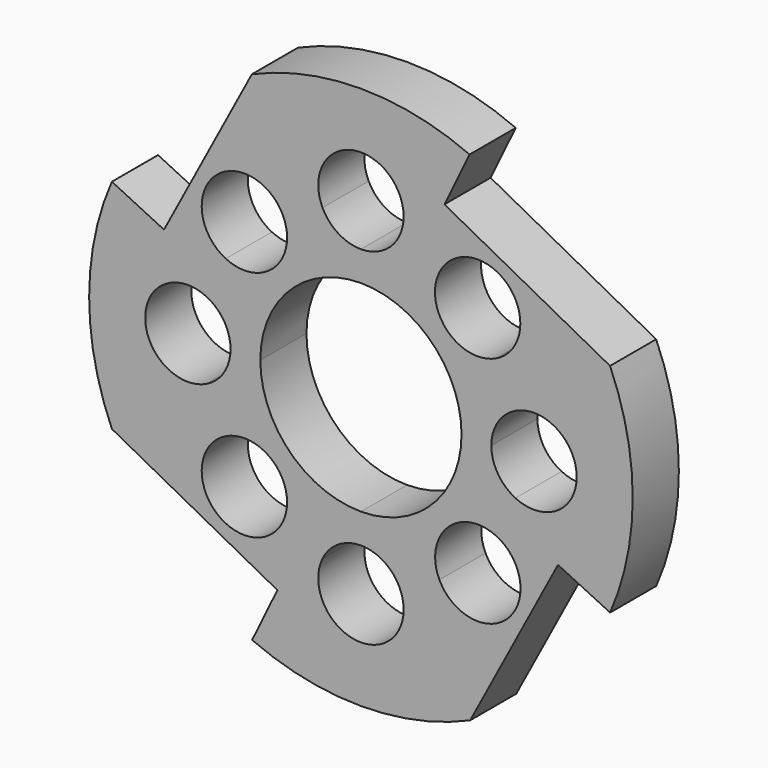
from build123d import *

# Parameters (mm, degrees)
F1_DEPTH = 6.35


with BuildPart() as f1:
    # F0 (on Front) → F1 (new body)
    with BuildSketch(Plane.XZ):
        with BuildLine():
            Line((-6.4141074981, 15.9385126175), (-4.2278079722, 16.9990878248))
            ThreePointArc((-4.2278079722, 16.9990878248), (-1.0521718821, 23.6296872525), (4.699, 19.05))
            ThreePointArc((4.699, 19.05), (4.5806844818, 18.0021781266), (4.2316960296, 17.0071221983))
            Line((4.2316960296, 17.0071221983), (6.4238473824, 15.9488473824))
            Line((6.4238473824, 15.9488473824), (9.1930085155, 21.6849947733))
            Line((9.1930085155, 21.6849947733), (11.9621696486, 27.4211421643))
            ThreePointArc((11.9621696486, 27.4211421643), (-0.0243040276, 29.9167503183), (-12.0067070775, 27.4016701215))
            Line((-12.0067070775, 27.4016701215), (-6.4141074981, 15.9385126175))
        make_face()
        with BuildLine():
            Line((-8.6004070241, 14.8779374102), (-6.4141074981, 15.9385126175))
            Line((-6.4141074981, 15.9385126175), (-12.0067070775, 27.4016701215))
            Line((-12.0067070775, 27.4016701215), (-21.6763890996, 9.1963973453))
            Line((-21.6763890996, 9.1963973453), (-15.9391074981, 6.4135126175))
            Line((-15.9391074981, 6.4135126175), (-14.8789637146, 8.5991379737))
            ThreePointArc((-14.8789637146, 8.5991379737), (-16.1509739914, 16.1496557682), (-8.6004070241, 14.8779374102))
        make_face()
        with BuildLine():
            ThreePointArc((-16.9992346746, -4.227879206), (-23.749, -9.2288e-06), (-16.9992512817, 4.2278872613))
            Line((-16.9992512817, 4.2278872613), (-15.9391074981, 6.4135126175))
            Line((-15.9391074981, 6.4135126175), (-21.6763890996, 9.1963973453))
            Line((-21.6763890996, 9.1963973453), (-27.4136707011, 11.9792820732))
            ThreePointArc((-27.4136707011, 11.9792820732), (-29.9167601905, 3.8177e-06), (-27.4136737585, -11.9792750765))
            Line((-27.4136737585, -11.9792750765), (-15.9391074981, -6.4134484614))
            Line((-15.9391074981, -6.4134484614), (-16.9992346746, -4.227879206))
        make_face()
        with BuildLine():
            Line((-9.1970720847, -21.6758947021), (-6.4141074981, -15.9384484614))
            Line((-6.4141074981, -15.9384484614), (-8.6004236303, -14.8778433301))
            ThreePointArc((-8.6004236303, -14.8778433301), (-16.1509809173, -16.1495205298), (-14.8789803216, -8.5990177168))
            Line((-14.8789803216, -8.5990177168), (-15.9391074981, -6.4134484614))
            Line((-15.9391074981, -6.4134484614), (-27.4136737585, -11.9792750765))
            Line((-27.4136737585, -11.9792750765), (-9.1970720847, -21.6758947021))
        make_face()
        with BuildLine():
            Line((6.4341816168, -15.9384484614), (4.2303024615, -17.0042380186))
            ThreePointArc((4.2303024615, -17.0042380186), (4.5803270771, -18.0006169113), (4.699, -19.05))
            ThreePointArc((4.699, -19.05), (-1.0521904227, -23.6296829928), (-4.227791366, -16.9990535926))
            Line((-4.227791366, -16.9990535926), (-6.4141074981, -15.9384484614))
            Line((-6.4141074981, -15.9384484614), (-9.1970720847, -21.6758947021))
            Line((-9.1970720847, -21.6758947021), (-11.9800366713, -27.4133409429))
            ThreePointArc((-11.9800366713, -27.4133409429), (0.0235983496, -29.9167508833), (12.0232690531, -27.3944071221))
            Line((12.0232690531, -27.3944071221), (6.4341816168, -15.9384484614))
        make_face()
        with BuildLine():
            Line((21.6946431052, -9.1775261509), (15.9591816168, -6.4134484614))
            Line((15.9591816168, -6.4134484614), (14.9083960431, -8.5938286342))
            ThreePointArc((14.9083960431, -8.5938286342), (16.8474784098, -10.3274483008), (17.5673632335, -12.8268969228))
            ThreePointArc((17.5673632335, -12.8268969228), (13.9177463222, -17.4072239999), (8.638060772, -14.8726589042))
            Line((8.638060772, -14.8726589042), (6.4341816168, -15.9384484614))
            Line((6.4341816168, -15.9384484614), (12.0232690531, -27.3944071221))
            Line((12.0232690531, -27.3944071221), (21.6946431052, -9.1775261509))
        make_face()
        with BuildLine():
            Line((15.9488473824, 6.4238473824), (17.0071221983, 4.2316960296))
            ThreePointArc((17.0071221983, 4.2316960296), (21.5481111074, 3.9799550117), (23.749, 0))
            ThreePointArc((23.749, 0), (21.549448622, -3.9791151763), (17.0099671904, -4.2330682886))
            Line((17.0099671904, -4.2330682886), (15.9591816168, -6.4134484614))
            Line((15.9591816168, -6.4134484614), (21.6946431052, -9.1775261509))
            Line((21.6946431052, -9.1775261509), (27.4301045936, -11.9416038403))
            ThreePointArc((27.4301045936, -11.9416038403), (29.9167580877, 0.0112169248), (27.4211421643, 11.9621696486))
            Line((27.4211421643, 11.9621696486), (15.9488473824, 6.4238473824))
        make_face()
        with BuildLine():
            Line((14.8905725665, 8.6159987352), (15.9488473824, 6.4238473824))
            Line((15.9488473824, 6.4238473824), (27.4211421643, 11.9621696486))
            Line((27.4211421643, 11.9621696486), (9.1930085155, 21.6849947733))
            Line((9.1930085155, 21.6849947733), (6.4238473824, 15.9488473824))
            Line((6.4238473824, 15.9488473824), (8.6159987352, 14.8905725665))
            ThreePointArc((8.6159987352, 14.8905725665), (13.8955166382, 17.4283792466), (17.5466947648, 12.8476947648))
            ThreePointArc((17.5466947648, 12.8476947648), (16.8276497765, 10.3495836574), (14.8905725665, 8.6159987352))
        make_face()
        with BuildLine():
            ThreePointArc((-11.0744, 0), (-7.8307833376, 7.8307833376), (0, 11.0744))
            Line((0, 11.0744), (0, 14.351))
            ThreePointArc((0, 14.351), (-2.4943300392, 15.0676742153), (-4.2278079722, 16.9990878248))
            Line((-4.2278079722, 16.9990878248), (-6.4141074981, 15.9385126175))
            Line((-6.4141074981, 15.9385126175), (-8.6004070241, 14.8779374102))
            ThreePointArc((-8.6004070241, 14.8779374102), (-8.2485277438, 13.879197117), (-8.1292149963, 12.827025235))
            ThreePointArc((-8.1292149963, 12.827025235), (-10.3338079753, 8.8447476689), (-14.8789637146, 8.5991379737))
            Line((-14.8789637146, 8.5991379737), (-15.9391074981, 6.4135126175))
            Line((-15.9391074981, 6.4135126175), (-16.9992512817, 4.2278872613))
            ThreePointArc((-16.9992512817, 4.2278872613), (-15.0677224339, 2.494407021), (-14.351, 0))
            Line((-14.351, 0), (-11.0744, 0))
        make_face()
        with BuildLine():
            Line((0, -14.351), (0, -11.0744))
            ThreePointArc((0, -11.0744), (-7.8307833376, -7.8307833376), (-11.0744, 0))
            Line((-11.0744, 0), (-14.351, 0))
            ThreePointArc((-14.351, 0), (-15.0677175349, -2.4943991998), (-16.9992346746, -4.227879206))
            Line((-16.9992346746, -4.227879206), (-15.9391074981, -6.4134484614))
            Line((-15.9391074981, -6.4134484614), (-14.8789803216, -8.5990177168))
            ThreePointArc((-14.8789803216, -8.5990177168), (-10.3338157965, -8.8446144577), (-8.1292149963, -12.8268969228))
            ThreePointArc((-8.1292149963, -12.8268969228), (-8.2485320035, -13.8790873455), (-8.6004236303, -14.8778433301))
            Line((-8.6004236303, -14.8778433301), (-6.4141074981, -15.9384484614))
            Line((-6.4141074981, -15.9384484614), (-4.227791366, -16.9990535926))
            ThreePointArc((-4.227791366, -16.9990535926), (-2.4943139169, -15.0676641171), (0, -14.351))
        make_face()
        with BuildLine():
            Line((14.351, 0), (11.0744, 0))
            ThreePointArc((11.0744, 0), (7.8307833376, -7.8307833376), (0, -11.0744))
            Line((0, -11.0744), (0, -14.351))
            ThreePointArc((0, -14.351), (2.4967544382, -15.0691937657), (4.2303024615, -17.0042380186))
            Line((4.2303024615, -17.0042380186), (6.4341816168, -15.9384484614))
            Line((6.4341816168, -15.9384484614), (8.638060772, -14.8726589042))
            ThreePointArc((8.638060772, -14.8726589042), (9.5434199744, -9.506452175), (14.9083960431, -8.5938286342))
            Line((14.9083960431, -8.5938286342), (15.9591816168, -6.4134484614))
            Line((15.9591816168, -6.4134484614), (17.0099671904, -4.2330682886))
            ThreePointArc((17.0099671904, -4.2330682886), (15.0708848237, -2.499448622), (14.351, 0))
        make_face()
        with BuildLine():
            ThreePointArc((0, 11.0744), (7.8307833376, 7.8307833376), (11.0744, 0))
            Line((11.0744, 0), (14.351, 0))
            ThreePointArc((14.351, 0), (15.0700449883, 2.4981111074), (17.0071221983, 4.2316960296))
            Line((17.0071221983, 4.2316960296), (15.9488473824, 6.4238473824))
            Line((15.9488473824, 6.4238473824), (14.8905725665, 8.6159987352))
            ThreePointArc((14.8905725665, 8.6159987352), (9.525, 9.525), (8.6159987352, 14.8905725665))
            Line((8.6159987352, 14.8905725665), (6.4238473824, 15.9488473824))
            Line((6.4238473824, 15.9488473824), (4.2316960296, 17.0071221983))
            ThreePointArc((4.2316960296, 17.0071221983), (2.4981111074, 15.0700449883), (0, 14.351))
            Line((0, 14.351), (0, 11.0744))
        make_face()
    extrude(amount=F1_DEPTH)


solid = f1.part
